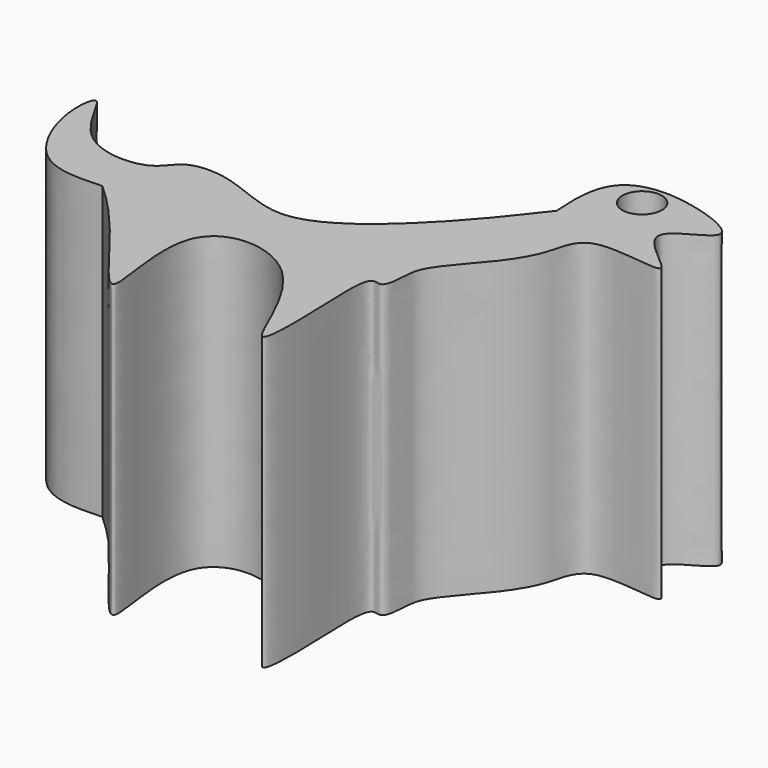
from build123d import *

# Parameters (mm, degrees)
F0_R     = 1.7222976854
F1_DEPTH = 25.4


with BuildPart() as f1:
    # F0 (on Top) → F1 (new body)
    with BuildSketch(Plane.XY):
        with BuildLine():
            add(Edge.make_bspline(
                [(-37.2450612485, 42.972818017), (-39.1578326506, 42.8876521378), (-43.221864437, 42.7067016908), (-46.1986002104, 49.2546874747), (-45.5811945333, 54.3971591239), (-43.1037040028, 46.7714958957), (-36.1944793826, 46.6313110027), (-35.1857778327, 49.4896200544), (-30.4733043692, 49.4549020297), (-24.4028317716, 45.6287044119), (-15.9769598787, 52.7699101784), (-12.502525393, 57.2666743428), (-10.8134178445, 59.452790767)],
                knots=[0, 0, 0, 0, 0.0992300084, 0.2108322552, 0.2802640446, 0.3785496888, 0.4813250713, 0.5469895848, 0.6321516765, 0.740215041, 0.873704703, 1, 1, 1, 1], degree=3))
            add(Edge.make_bspline(
                [(-10.8134178445, 59.452790767), (-10.9529996375, 61.4413375593), (-11.0128983539, 65.279178806), (-6.123144065, 66.8532510138), (3.1448102058, 63.6193260063), (-6.0784241582, 61.327562282), (3.5172740781, 55.7471612622), (-6.8644515604, 58.5740699243), (-7.2883030423, 54.5107215983), (-8.4910088263, 52.3013297522), (-9.7602980321, 50.556359078), (-12.8593425015, 47.192563049), (-12.8273282388, 45.4278125919), (-13.0874286501, 43.1082462621), (-14.8486447504, 44.2268714066), (-14.3705002438, 37.9350580951), (-14.4312894522, 28.5771218429), (-18.2851276055, 43.1330400179), (-30.3730919412, 43.414784329), (-24.9826432681, 25.7653106808), (-32.2691456446, 38.6093214725), (-37.2450612485, 42.972818017)],
                knots=[0, 0, 0, 0, 0.0550854667, 0.107712172, 0.167562945, 0.2164824635, 0.2691592053, 0.3268468963, 0.3699577174, 0.4077776758, 0.4441805916, 0.4943557988, 0.5280289191, 0.5598399303, 0.5813651657, 0.6395667605, 0.6949452786, 0.7706891823, 0.8370344175, 0.9082266985, 1, 1, 1, 1], degree=3))
        make_face()
        with Locations((-6.9919764064, 63.9907494187)):
            Circle(F0_R, mode=Mode.SUBTRACT)
    extrude(amount=F1_DEPTH)


solid = f1.part
